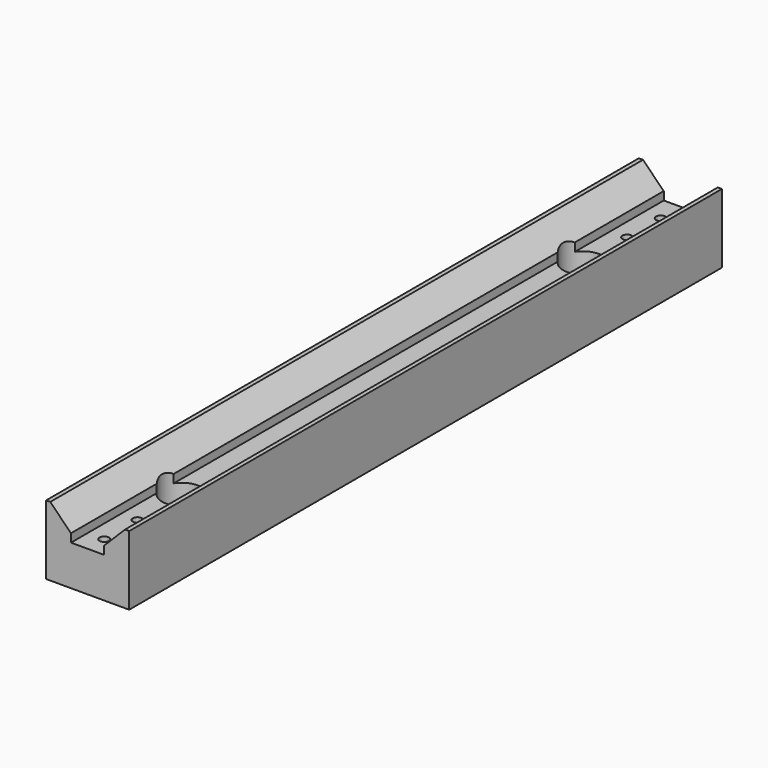
from build123d import *

# Parameters (mm, degrees)
F1_DEPTH = 535
F2_R     = 14.25
F2_R_2   = 3.4
F3_DEPTH = 40


with BuildPart() as f1:
    # F0 (on Front) → F1 (new body)
    with BuildSketch(Plane.XZ):
        Polygon((0, 50), (0, 0), (60, 0), (60, 50), (57, 50), (42, 35), (42, 29), (30, 29), (18, 29), (18, 35), (3, 50), align=None)
    extrude(amount=F1_DEPTH)

    # F2 (on face) → F3 (cut)
    with BuildSketch(Plane(origin=(0, 0, 0), x_dir=(1, 0, 0), z_dir=(0, 0, -1))):
        with Locations((30, 88)):
            Circle(F2_R)
        with Locations((30, 48)):
            Circle(F2_R_2)
        with Locations((30.223195, 18.00083)):
            Circle(F2_R_2)
        with Locations((30, 450)):
            Circle(F2_R)
        with Locations((30, 490)):
            Circle(F2_R_2)
        with Locations((30, 520)):
            Circle(F2_R_2)
    extrude(amount=-F3_DEPTH, mode=Mode.SUBTRACT)


solid = f1.part
